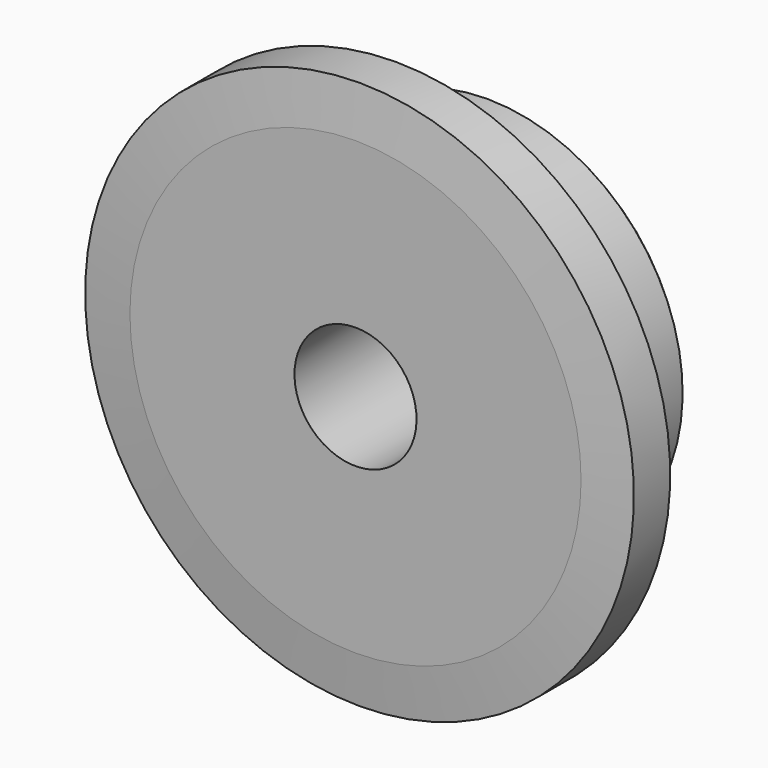
from build123d import *

# Parameters (mm, degrees)
F0_W     = 15.0114
F0_H     = 17.4625
F0_W_2   = 7.2136
F0_H_2   = 10.287
F2_R     = 1.5875
F3_SIZE  = 0.79375
F4_SIZE2 = 6.35
F4_SIZE  = 0.6604


with BuildPart() as f1:
    # F0 (on Right) → F1 (revolve)
    with BuildSketch(Plane.YZ):
        with Locations((14.7193, 16.66875)):
            Rectangle(F0_W, F0_H)
        with Locations((3.6068, 30.5435)):
            Rectangle(F0_W_2, F0_H_2)
        with Locations((3.6068, 16.66875)):
            Rectangle(F0_W_2, F0_H)
    revolve(axis=Axis((0, 11.1125, 0), (0, 1, 0)))

    # F2
    f2_edges = [f1.edges().sort_by_distance(p)[0] for p in [
        (0, 7.2136, -25.4),
    ]]
    fillet(f2_edges, radius=F2_R)

    # F3
    f3_edges = [f1.edges().sort_by_distance(p)[0] for p in [
        (0, 22.225, -25.4),
    ]]
    chamfer(f3_edges, length=F3_SIZE)

    # F4
    f4_edges = [f1.edges().sort_by_distance(p)[0] for p in [
        (0, 0, -35.687),
        (0, 7.2136, -35.687),
    ]]
    f4_side = f1.faces().sort_by_distance((0, 3.6068, -35.687))[0]
    chamfer(f4_edges, length=F4_SIZE, length2=F4_SIZE2, reference=f4_side)


solid = f1.part
